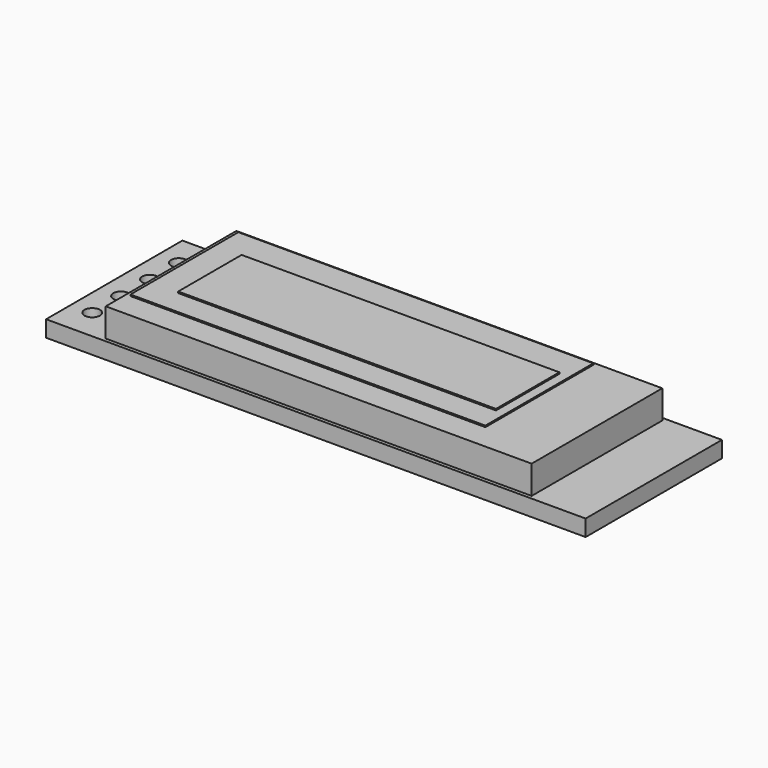
from build123d import *

# Parameters (mm, degrees)
SKETCH_W     = 38
SKETCH_H     = 12
PAD_DEPTH    = 1.15
SKETCH001_R  = 0.55
POCKET_DEPTH = 1.151
SKETCH002_W  = 30
SKETCH002_H  = 11.5
PAD001_DEPTH = 2
SKETCH003_W  = 25
SKETCH003_H  = 9.5
PAD002_DEPTH = 0.1
SKETCH004_W  = 22.38
SKETCH004_H  = 5.58
PAD003_DEPTH = 0.1


with BuildPart() as pcb:
    # Sketch → Pad (new body)
    with BuildSketch(Plane.XY):
        with Locations((19, -6)):
            Rectangle(SKETCH_W, SKETCH_H)
    extrude(amount=PAD_DEPTH)

    # Sketch001 (on Face6 of Pad) → Pocket (cut, through all)
    with BuildSketch(Plane.XY.offset(1.15)):
        with Locations((1.5, -2.19)):
            Circle(SKETCH001_R)
        with Locations((1.5, -9.81)):
            Circle(SKETCH001_R)
        with Locations((1.5, -4.73)):
            Circle(SKETCH001_R)
        with Locations((1.5, -7.27)):
            Circle(SKETCH001_R)
    extrude(amount=-POCKET_DEPTH, mode=Mode.SUBTRACT)


with BuildPart() as glass:
    # Sketch002 (on Face1 of CopyPocket) → Pad001 (new body)
    with BuildSketch(Plane.XY.offset(1.15)):
        with Locations((19, -6)):
            Rectangle(SKETCH002_W, SKETCH002_H)
    extrude(amount=PAD001_DEPTH)


with BuildPart() as blackfilm:
    # Sketch003 (on Face1 of CopyPad001) → Pad002 (new body)
    with BuildSketch(Plane.XY.offset(3.15)):
        with Locations((16.8, -5.2)):
            Rectangle(SKETCH003_W, SKETCH003_H)
    extrude(amount=PAD002_DEPTH)


with BuildPart() as pixel_area:
    # Sketch004 (on Face1 of CopyPad002) → Pad003 (new body)
    with BuildSketch(Plane.XY.offset(3.25)):
        with Locations((17.44, -5.39)):
            Rectangle(SKETCH004_W, SKETCH004_H)
    extrude(amount=PAD003_DEPTH)


solid = Compound([pcb.part, glass.part, blackfilm.part, pixel_area.part])
